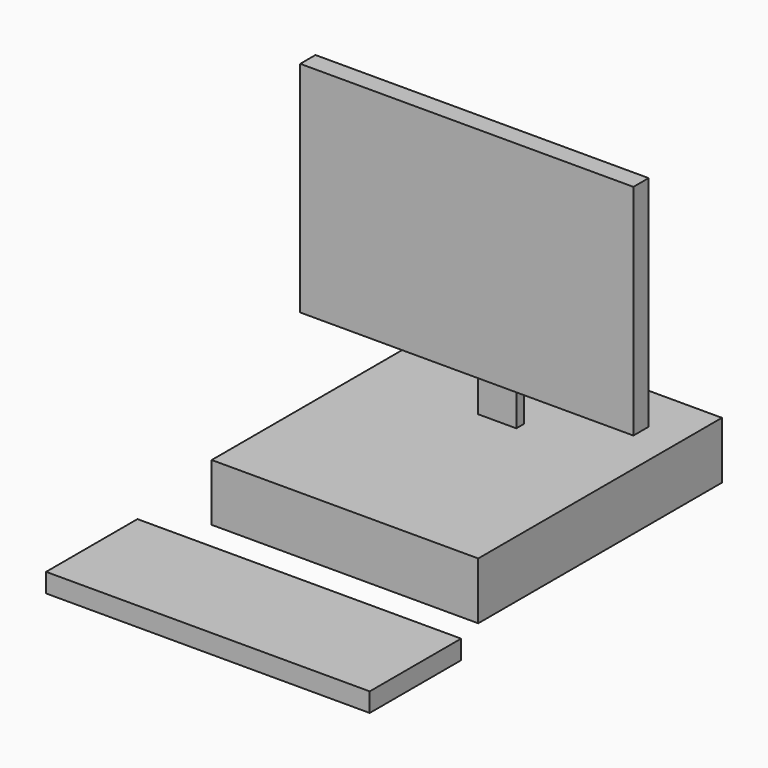
from build123d import *

# Parameters (mm, degrees)
F0_W     = 355.6
F0_H     = 406.4
F1_DEPTH = 76.2
F3_DEPTH = 25.4
F4_W     = 444.5
F4_H     = 292.1
F5_DEPTH = 25.4
F7_W     = 431.8
F7_H     = 152.4
F8_DEPTH = 25.4


with BuildPart() as f1:
    # F0 (on Top) → F1 (new body)
    with BuildSketch(Plane.XY):
        Rectangle(F0_W, F0_H)
    extrude(amount=F1_DEPTH)

    # F2 (on Right) → F3 (join, symmetric)
    with BuildSketch(Plane.YZ):
        Polygon((63.5, 241.3), (25.4, 241.3), (25.4, 228.6), (50.8, 228.6), (50.8, 76.2), (63.5, 76.2), align=None)
    extrude(amount=F3_DEPTH, both=True)

    # F4 (on Front) → F5 (join)
    with BuildSketch(Plane.XZ):
        with Locations((0, 298.45)):
            Rectangle(F4_W, F4_H)
    extrude(amount=-F5_DEPTH)


with BuildPart() as f8:
    # F7 (on offset) → F8 (new body)
    with BuildSketch(Plane(origin=(0, 0, 0), x_dir=(1, 0, 0), z_dir=(0, 0, -1))):
        with Locations((0, 355.6)):
            Rectangle(F7_W, F7_H)
    extrude(amount=-F8_DEPTH)


solid = Compound([f1.part, f8.part])
